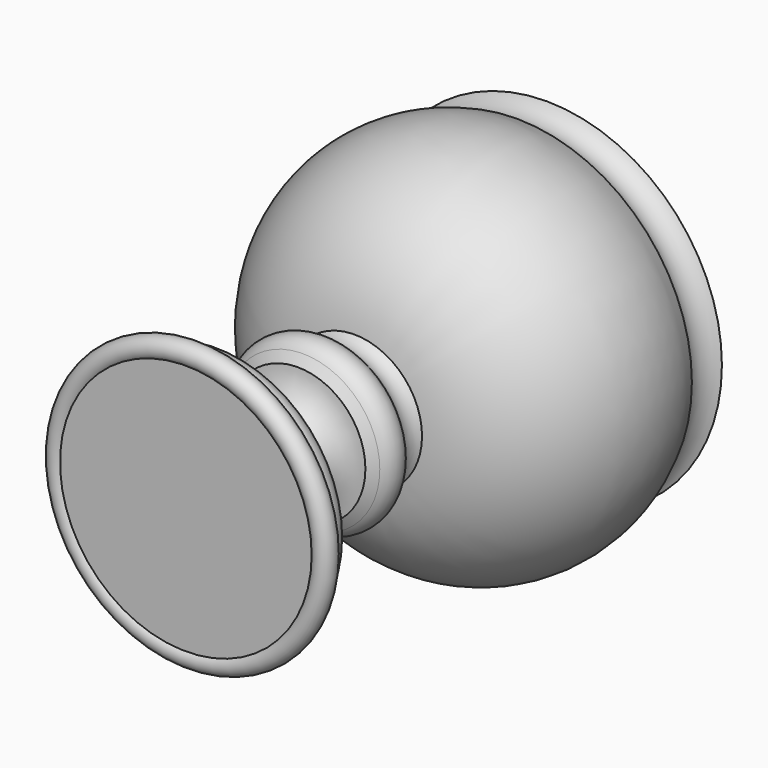
from build123d import *


with BuildPart() as f1:
    # F0 (on Top) → F1 (revolve)
    with BuildSketch(Plane.XY):
        with BuildLine():
            ThreePointArc((18.040296, 5.611115), (7.968175, 3.920033), (0, 10.308739))
            Line((0, 10.308739), (0, -56.296032))
            Line((0, -56.296032), (33.603057, -56.296032))
            ThreePointArc((33.603057, -56.296032), (38.326807, -54.134632), (33.603057, -51.973231))
            ThreePointArc((33.603057, -51.973231), (33.957966, -46.656561), (29.208094, -44.241678))
            ThreePointArc((29.208094, -44.241678), (27.336099, -40.227722), (23.194665, -38.657777))
            ThreePointArc((23.194665, -38.657777), (8.343594, -31.98045), (18.040296, -18.899357))
            Line((18.040296, -18.899357), (20.546706, -17.228417))
            ThreePointArc((20.546706, -17.228417), (22.7554, -13.489744), (21.206322, -9.4331))
            Line((21.206322, -9.4331), (18.040296, -6.442964))
            ThreePointArc((18.040296, -6.442964), (16.651687, -3.221482), (18.040296, 0))
            ThreePointArc((18.040296, 0), (46.700799, 19.471777), (46.81886, 54.120883))
            ThreePointArc((46.81886, 54.120883), (43.844193, 59.136085), (46.81886, 64.151287))
            ThreePointArc((46.81886, 64.151287), (41.033182, 60.6901), (39.51684, 54.120883))
            ThreePointArc((39.51684, 54.120883), (43.082354, 23.533338), (18.040296, 5.611115))
        make_face()
    revolve(axis=Axis((0, 3.927628, 0), (0, -1, 0)))


solid = f1.part
